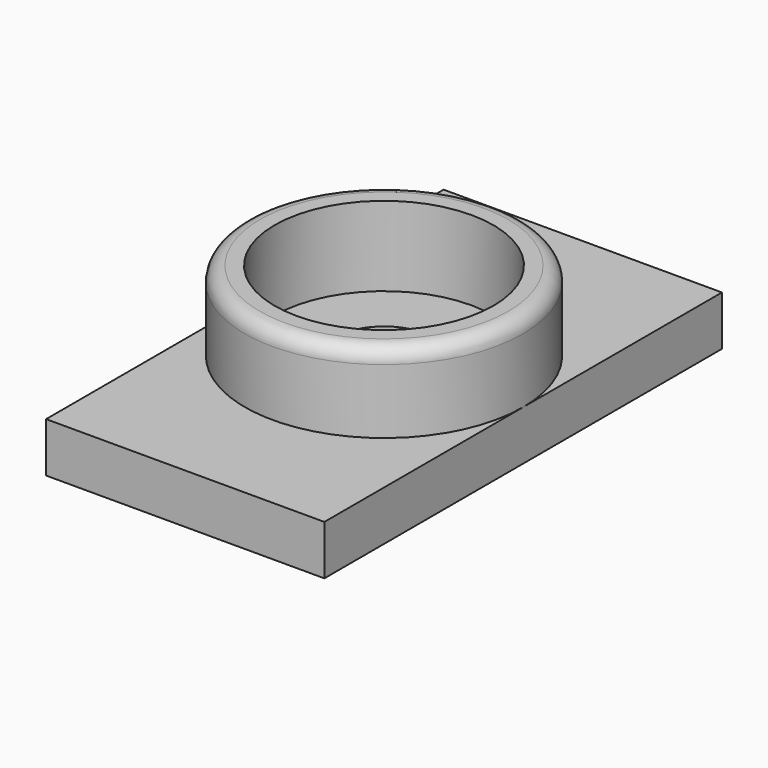
from build123d import *

# Parameters (mm, degrees)
F0_W     = 28
F0_H     = 50
F1_DEPTH = 5
F2_R     = 5
F3_DEPTH = 5
F4_R     = 14
F4_R_2   = 11
F5_DEPTH = 8
F6_R     = 1.5


with BuildPart() as f1:
    # F0 (on Top) → F1 (new body)
    with BuildSketch(Plane.XY):
        with Locations((14, 25)):
            Rectangle(F0_W, F0_H)
    extrude(amount=F1_DEPTH)

    # F2 (on face) → F3 (cut, through all)
    with BuildSketch(Plane.XY.offset(5)):
        with Locations((14, 25)):
            Circle(F2_R)
    extrude(amount=-F3_DEPTH, mode=Mode.SUBTRACT)

    # F4 (on face) → F5 (join)
    with BuildSketch(Plane.XY.offset(5)):
        with Locations((14, 25)):
            Circle(F4_R)
        with Locations((14, 25)):
            Circle(F4_R_2, mode=Mode.SUBTRACT)
    extrude(amount=F5_DEPTH)

    # F6
    f6_edges = [f1.edges().sort_by_distance(p)[0] for p in [
        (0, 25, 13),
    ]]
    fillet(f6_edges, radius=F6_R)


solid = f1.part
